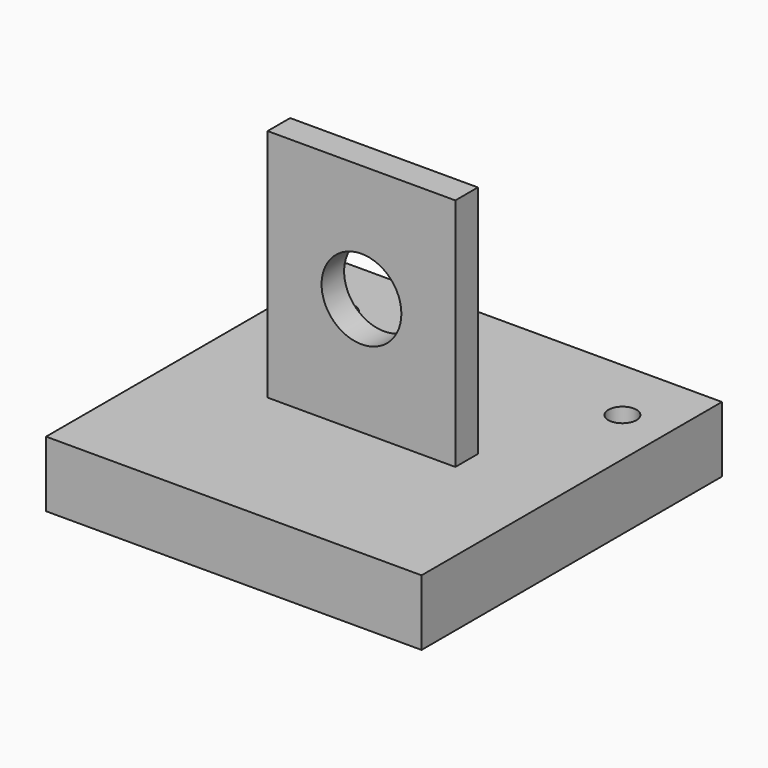
from build123d import *

# Parameters (mm, degrees)
F0_W     = 40
F0_H     = 40
F1_DEPTH = 7
F3_W     = 20
F3_H     = 3
F4_DEPTH = 25
F5_R     = 1.5
F6_DEPTH = 25
F7_R     = 4.25
F8_DEPTH = 25


with BuildPart() as f1:
    # F0 (on Top) → F1 (new body)
    with BuildSketch(Plane.XY):
        Rectangle(F0_W, F0_H)
    extrude(amount=F1_DEPTH)

    # F3 (on offset) → F4 (join)
    with BuildSketch(Plane.XY.offset(7)):
        with Locations((0, -1.5)):
            Rectangle(F3_W, F3_H)
    extrude(amount=F4_DEPTH)

    # F5 (on offset) → F6 (cut)
    with BuildSketch(Plane.XY.offset(7)):
        with Locations((-15, 13)):
            Circle(F5_R)
        with Locations((15, 13)):
            Circle(F5_R)
    extrude(amount=-F6_DEPTH, mode=Mode.SUBTRACT)

    # F7 (on Front) → F8 (cut)
    with BuildSketch(Plane.XZ):
        with Locations((0, 19.5)):
            Circle(F7_R)
    extrude(amount=F8_DEPTH, mode=Mode.SUBTRACT)


solid = f1.part
